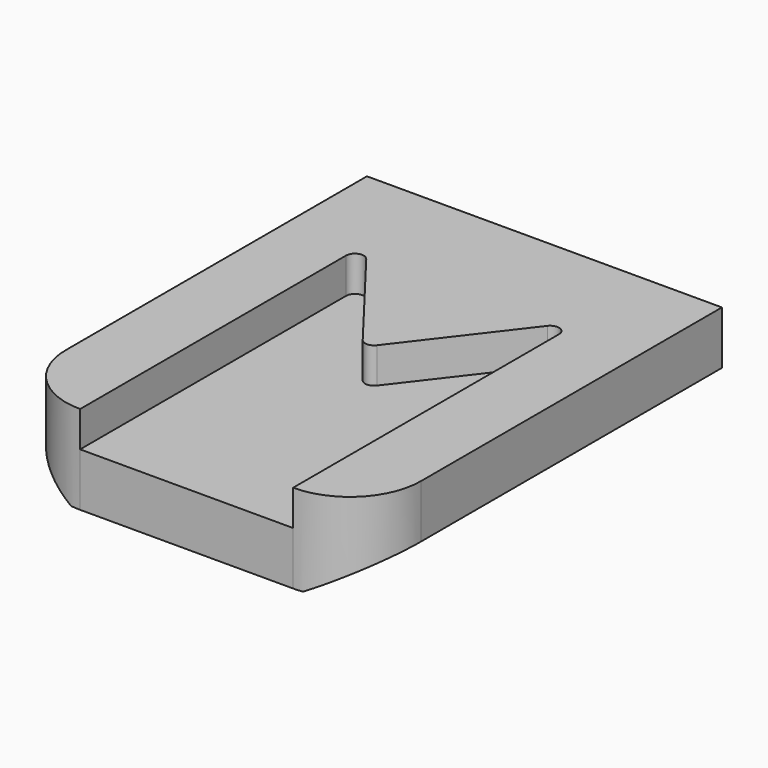
from build123d import *

# Parameters (mm, degrees)
F1_DEPTH  = 252
F4_DEPTH  = 20
F6_DEPTH  = 50.001
F7_R      = 5
F8_R      = 5
F9_W      = 180
F9_H      = 217
F10_DEPTH = 25
F11_R     = 10


with BuildPart() as f1:
    # F0 (on Front) → F1 (new body)
    with BuildSketch(Plane.XZ):
        Polygon((100, 0), (0, 0), (0, -50), (65.3589838486, -50), (100, -30), align=None)
    extrude(amount=F1_DEPTH)

    # F2: F1 across plane


with BuildPart() as f1_1:
    add(f1.part)
    add(f1.part.mirror(Plane.YZ))

    # F3 (on face) → F4 (cut)
    with BuildSketch(Plane.XY):
        Polygon((-60, -252), (60, -252), (60, -50), (0, -128.1935223705), (-60, -50), align=None)
    extrude(amount=-F4_DEPTH, mode=Mode.SUBTRACT)

    # F5 (on face) → F6 (cut, through all)
    with BuildSketch(Plane.XY):
        with BuildLine():
            ThreePointArc((100, -212), (88.2842712475, -240.2842712475), (60, -252))
            Line((60, -252), (100, -252))
            Line((100, -252), (100, -212))
        make_face()
        with BuildLine():
            Line((-100, -252), (-60, -252))
            ThreePointArc((-60, -252), (-88.2842712475, -240.2842712475), (-100, -212))
            Line((-100, -212), (-100, -252))
        make_face()
    extrude(amount=-F6_DEPTH, mode=Mode.SUBTRACT)

    # F7
    f7_edges = [f1_1.edges().sort_by_distance(p)[0] for p in [
        (0, -128.193522, -10),
    ]]
    fillet(f7_edges, radius=F7_R)

    # F8
    f8_edges = [f1_1.edges().sort_by_distance(p)[0] for p in [
        (60, -50, -10),
        (-60, -50, -10),
    ]]
    fillet(f8_edges, radius=F8_R)

    # F9 (on face) → F10 (cut)
    with BuildSketch(Plane(origin=(0, 0, -50), x_dir=(1, 0, 0), z_dir=(0, 0, -1))):
        with Locations((0, 118.5)):
            Rectangle(F9_W, F9_H)
    extrude(amount=-F10_DEPTH, mode=Mode.SUBTRACT)

    # F11
    f11_edges = [f1_1.edges().sort_by_distance(p)[0] for p in [
        (90, -10, -30.386751),
        (-90, -10, -30.386751),
        (-90, -227, -30.386751),
        (90, -227, -30.386751),
    ]]
    fillet(f11_edges, radius=F11_R)


solid = f1_1.part
